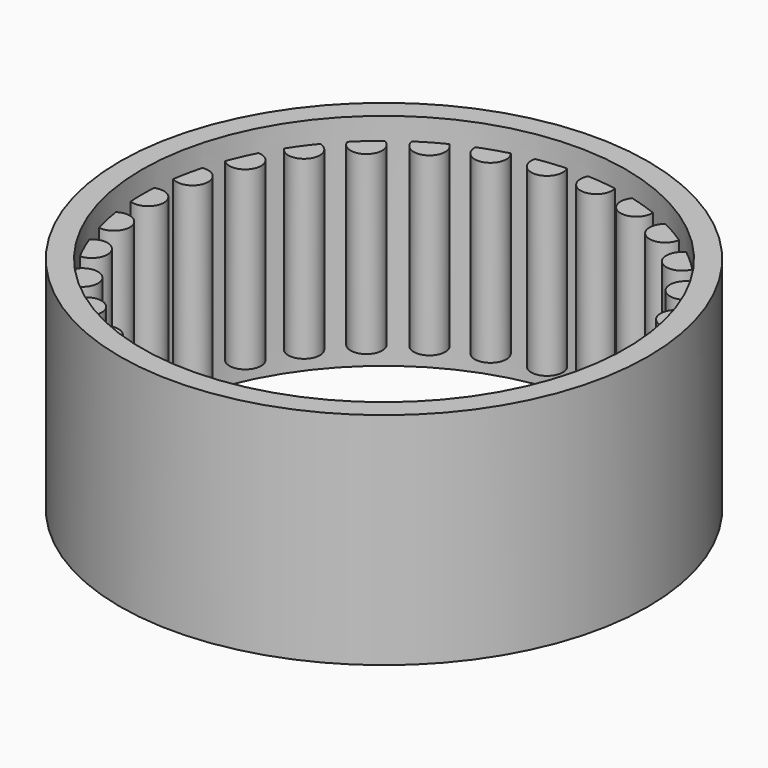
from build123d import *

# Parameters (mm, degrees)
F0_W     = 1.5875
F0_H     = 15.875
F2_R     = 1.13983
F3_DEPTH = 6.35


with BuildPart() as f1:
    # F0 (on Front) → F1 (revolve)
    with BuildSketch(Plane.XZ):
        with Locations((-18.25625, 0)):
            Rectangle(F0_W, F0_H)
    revolve(axis=Axis((0, 0, 36.088426), (0, 0, 1)))

    # F2 (on Top) → F3 (join, symmetric)
    with BuildSketch(Plane.XY):
        with Locations((17.01483, 0)):
            Circle(F2_R)
        with Locations((16.643015, 3.537582)):
            Circle(F2_R)
        with Locations((15.543821, 6.920555)):
            Circle(F2_R)
        with Locations((13.765287, 10.001066)):
            Circle(F2_R)
        with Locations((11.385144, 12.644483)):
            Circle(F2_R)
        with Locations((8.507415, 14.735275)):
            Circle(F2_R)
        with Locations((5.257872, 16.182065)):
            Circle(F2_R)
        with Locations((1.778534, 16.921621)):
            Circle(F2_R)
        with Locations((-1.778534, 16.921621)):
            Circle(F2_R)
        with Locations((-5.257872, 16.182065)):
            Circle(F2_R)
        with Locations((-8.507415, 14.735275)):
            Circle(F2_R)
        with Locations((-11.385144, 12.644483)):
            Circle(F2_R)
        with Locations((-13.765287, 10.001066)):
            Circle(F2_R)
        with Locations((-15.543821, 6.920555)):
            Circle(F2_R)
        with Locations((-16.643015, 3.537582)):
            Circle(F2_R)
        with Locations((-17.01483, 0)):
            Circle(F2_R)
        with Locations((-16.643015, -3.537582)):
            Circle(F2_R)
        with Locations((-15.543821, -6.920555)):
            Circle(F2_R)
        with Locations((-13.765287, -10.001066)):
            Circle(F2_R)
        with Locations((-11.385144, -12.644483)):
            Circle(F2_R)
        with Locations((-8.507415, -14.735275)):
            Circle(F2_R)
        with Locations((-5.257872, -16.182065)):
            Circle(F2_R)
        with Locations((-1.778534, -16.921621)):
            Circle(F2_R)
        with Locations((1.778534, -16.921621)):
            Circle(F2_R)
        with Locations((5.257872, -16.182065)):
            Circle(F2_R)
        with Locations((8.507415, -14.735275)):
            Circle(F2_R)
        with Locations((11.385144, -12.644483)):
            Circle(F2_R)
        with Locations((13.765287, -10.001066)):
            Circle(F2_R)
        with Locations((15.543821, -6.920555)):
            Circle(F2_R)
        with Locations((16.643015, -3.537582)):
            Circle(F2_R)
    extrude(amount=F3_DEPTH, both=True)


solid = f1.part
